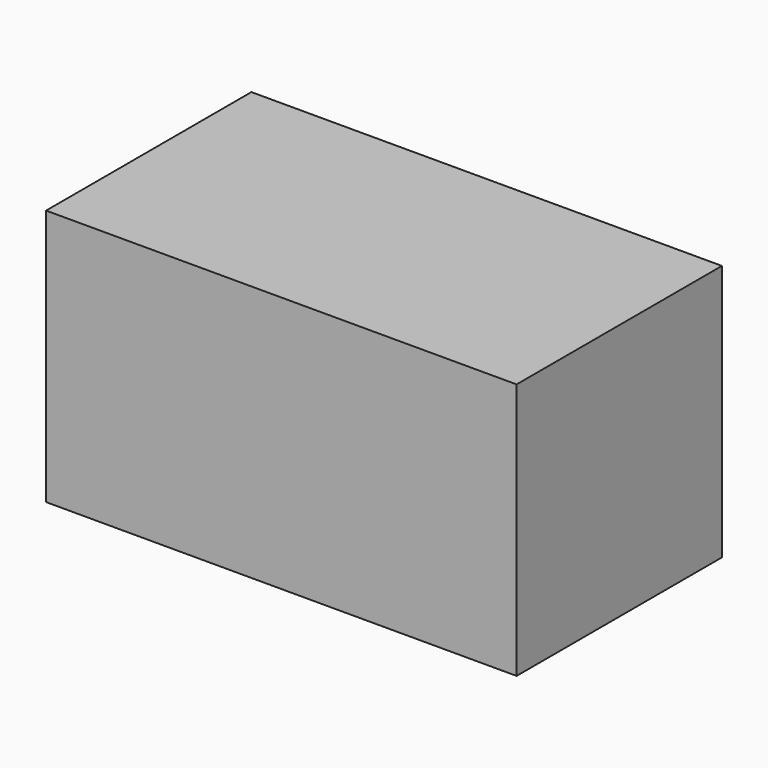
from build123d import *

# Parameters (mm, degrees)
F0_W     = 139.7
F0_H     = 76.2
F0_W_2   = 38.1
F0_H_2   = 30.48
F1_DEPTH = 76.2
F2_DEPTH = 63.5


with BuildPart() as f1:
    # F0 (on Top) → F1 (new body)
    with BuildSketch(Plane.XY):
        Rectangle(F0_W, F0_H)
        with Locations((-45.982758, -18.852929)):
            Rectangle(F0_W_2, F0_H_2, mode=Mode.SUBTRACT)
        with Locations((2.496207, -17.867586)):
            Rectangle(F0_W_2, F0_H_2, mode=Mode.SUBTRACT)
        with Locations((47.23086, -18.655861)):
            Rectangle(F0_W_2, F0_H_2, mode=Mode.SUBTRACT)
        with Locations((-47.392681, 17.322249)):
            Rectangle(F0_W_2, F0_H_2, mode=Mode.SUBTRACT)
        with Locations((3.284482, 17.013621)):
            Rectangle(F0_W_2, F0_H_2, mode=Mode.SUBTRACT)
        with Locations((47.23086, 17.801897)):
            Rectangle(F0_W_2, F0_H_2, mode=Mode.SUBTRACT)
        with Locations((-47.392681, 17.322249)):
            Rectangle(F0_W_2, F0_H_2)
        with Locations((3.284482, 17.013621)):
            Rectangle(F0_W_2, F0_H_2)
        with Locations((47.23086, 17.801897)):
            Rectangle(F0_W_2, F0_H_2)
        with Locations((47.23086, -18.655861)):
            Rectangle(F0_W_2, F0_H_2)
        with Locations((2.496207, -17.867586)):
            Rectangle(F0_W_2, F0_H_2)
        with Locations((-45.982758, -18.852929)):
            Rectangle(F0_W_2, F0_H_2)
    extrude(amount=F1_DEPTH)

    # F0 (on Top) → F2 (cut)
    with BuildSketch(Plane.XY):
        with Locations((-47.392681, 17.322249)):
            Rectangle(F0_W_2, F0_H_2)
        with Locations((3.284482, 17.013621)):
            Rectangle(F0_W_2, F0_H_2)
        with Locations((47.23086, 17.801897)):
            Rectangle(F0_W_2, F0_H_2)
        with Locations((47.23086, -18.655861)):
            Rectangle(F0_W_2, F0_H_2)
        with Locations((2.496207, -17.867586)):
            Rectangle(F0_W_2, F0_H_2)
        with Locations((-45.982758, -18.852929)):
            Rectangle(F0_W_2, F0_H_2)
    extrude(amount=F2_DEPTH, mode=Mode.SUBTRACT)


solid = f1.part
